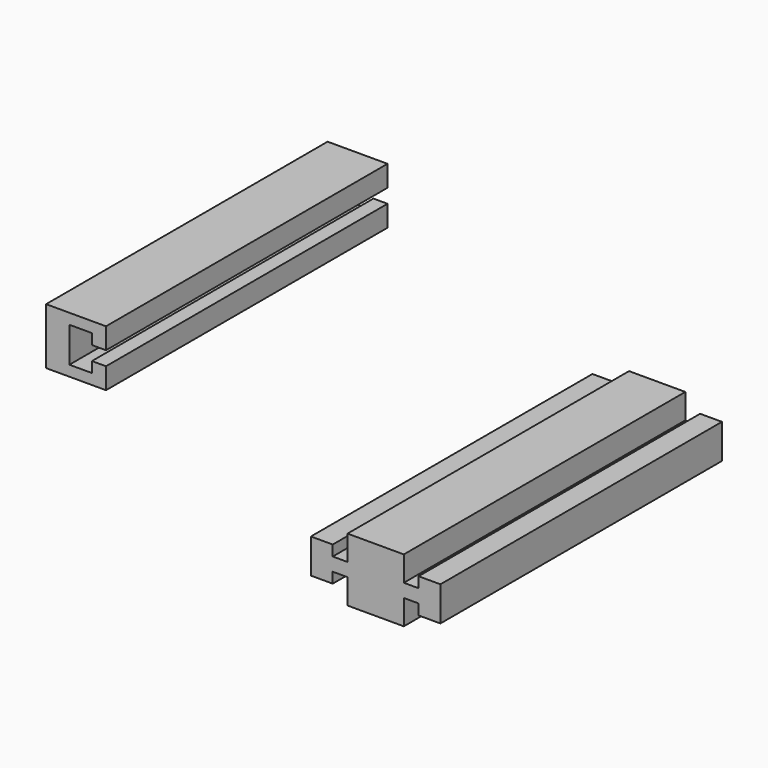
from build123d import *

# Parameters (mm, degrees)
F0_W     = 1.05
F0_H     = 0.95
F1_DEPTH = 25
F2_W     = 1
F2_H     = 0.75
F3_DEPTH = 25


with BuildPart() as f1:
    # F0 (on Front) → F1 (new body)
    with BuildSketch(Plane.XZ):
        Polygon((-27.331936, 17.544156), (-27.331936, 18.294156), (-27.331936, 19.244156), (-27.331936, 19.994156), (-28.881936, 19.994156), (-28.881936, 17.544156), align=None)
        with Locations((-26.806936, 18.769156)):
            Rectangle(F0_W, F0_H)
        Polygon((-26.281936, 16.519156), (-22.281936, 16.519156), (-22.281936, 18.294156), (-22.281936, 19.244156), (-22.281936, 21.019156), (-26.281936, 21.019156), (-26.281936, 19.244156), (-26.281936, 18.294156), align=None)
        with Locations((-21.756936, 18.769156)):
            Rectangle(F0_W, F0_H)
        Polygon((-21.231936, 19.244156), (-21.231936, 18.294156), (-21.231936, 17.544156), (-19.681936, 17.544156), (-19.681936, 19.994156), (-21.231936, 19.994156), align=None)
    extrude(amount=-F1_DEPTH)


with BuildPart() as f3:
    # F2 (on Front) → F3 (new body)
    with BuildSketch(Plane.XZ):
        Polygon((-47.696675, 28.405511), (-47.696675, 24.405511), (-46.04011, 24.405511), (-46.04011, 25.155511), (-46.04011, 27.655511), (-46.04011, 28.405511), align=None)
        Polygon((-46.04011, 25.155511), (-46.04011, 24.405511), (-43.44011, 24.405511), (-43.44011, 25.155511), (-44.44011, 25.155511), align=None)
        Polygon((-43.44011, 28.405511), (-46.04011, 28.405511), (-46.04011, 27.655511), (-44.44011, 27.655511), (-43.44011, 27.655511), align=None)
        with Locations((-43.94011, 25.530511)):
            Rectangle(F2_W, F2_H)
        with Locations((-43.94011, 27.280511)):
            Rectangle(F2_W, F2_H)
    extrude(amount=-F3_DEPTH)


solid = Compound([f1.part, f3.part])
